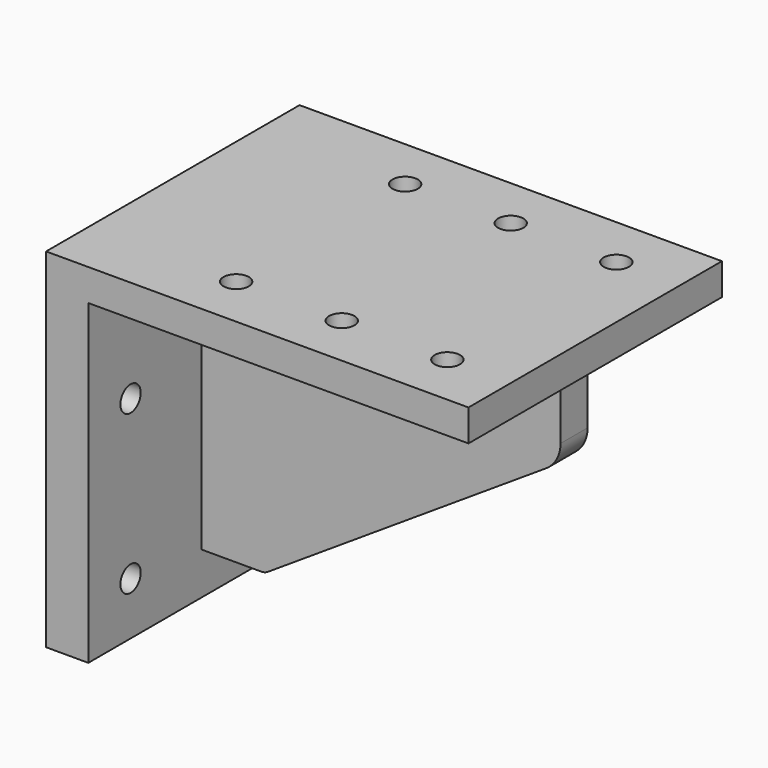
from build123d import *

# Parameters (mm, degrees)
F1_DEPTH = 150
F2_W     = 16
F2_H     = 130
F3_DEPTH = 170
F5_DEPTH = 16
F6_R     = 6
F7_DEPTH = 15
F8_R     = 6
F9_DEPTH = 20


with BuildPart() as f1:
    # F0 (on Front) → F1 (new body)
    with BuildSketch(Plane.XZ):
        Polygon((-95.860116, -70.643179), (-75.860116, -70.643179), (-75.860116, 79.356821), (104.139884, 79.356821), (104.139884, 94.356821), (-95.860116, 94.356821), align=None)
    extrude(amount=F1_DEPTH)

    # F2 (on face) → F3 (join)
    with BuildSketch(Plane.YZ.offset(-75.860116)):
        with Locations((-75, 14.356821)):
            Rectangle(F2_W, F2_H)
    extrude(amount=F3_DEPTH)

    # F4 (on face) → F5 (cut)
    with BuildSketch(Plane.XZ.offset(83)):
        with BuildLine():
            ThreePointArc((-44.365328, -49.667342), (-45.934238, -50.394048), (-47.645235, -50.643179))
            Line((-47.645235, -50.643179), (94.139884, -50.643179))
            Line((94.139884, -50.643179), (94.139884, 48.873568))
            ThreePointArc((94.139884, 48.873568), (92.330723, 41.732018), (87.339651, 36.313161))
            Line((87.339651, 36.313161), (-44.365328, -49.667342))
        make_face()
    extrude(amount=-F5_DEPTH, mode=Mode.SUBTRACT)

    # F6 (on face) → F7 (cut)
    with BuildSketch(Plane.XY.offset(94.356821)):
        with Locations((-25.860116, -25)):
            Circle(F6_R)
        with Locations((24.139884, -25)):
            Circle(F6_R)
        with Locations((74.139884, -25)):
            Circle(F6_R)
        with Locations((74.139884, -125)):
            Circle(F6_R)
        with Locations((24.139884, -125)):
            Circle(F6_R)
        with Locations((-25.860116, -125)):
            Circle(F6_R)
    extrude(amount=-F7_DEPTH, mode=Mode.SUBTRACT)

    # F8 (on face) → F9 (cut)
    with BuildSketch(Plane(origin=(-95.860116, 0, 0), x_dir=(0, -1, 0), z_dir=(-1, 0, 0))):
        with Locations((125, 29.356821)):
            Circle(F8_R)
        with Locations((125, -45.643179)):
            Circle(F8_R)
        with Locations((25, -45.643179)):
            Circle(F8_R)
        with Locations((25, 29.356821)):
            Circle(F8_R)
    extrude(amount=-F9_DEPTH, mode=Mode.SUBTRACT)


solid = f1.part
